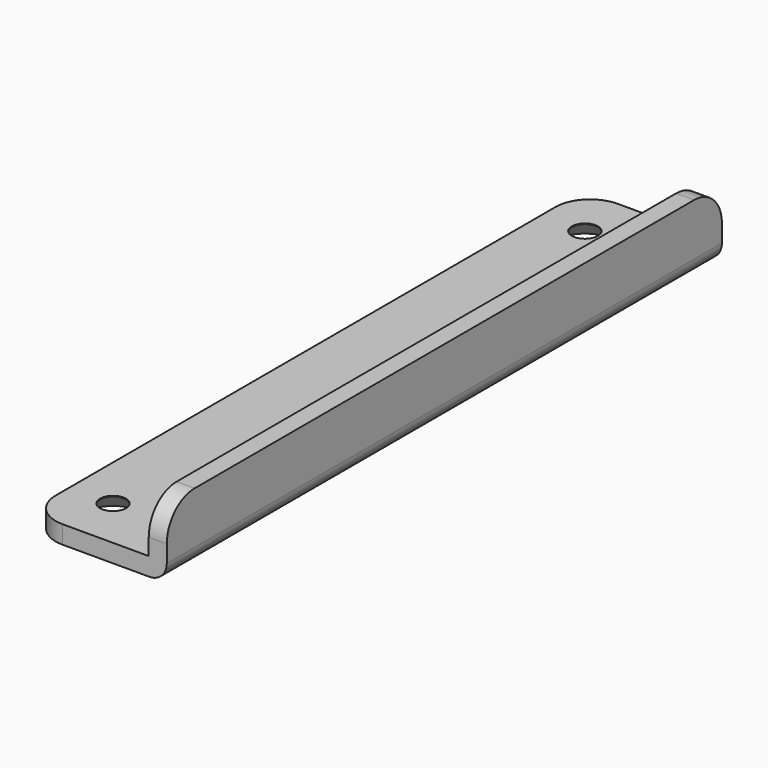
from build123d import *

# Parameters (mm, degrees)
PAD6703_DEPTH            = 63.5
FILLET540_R              = 6.35
FILLET541_R              = 3.175
SKETCH7626_R             = 2.38125
POCKET658_DEPTH          = 12.701
CHAMFER2378_SIZE         = 3.175
BODY6012_PLACEMENT_ANGLE = 180


with BuildPart() as part:
    # Sketch7640 → Pad6703 (new body, symmetric)
    with BuildSketch(Plane.XZ):
        Polygon((0, 0), (22.098, 0), (22.098, -9.398), (25.4, -9.398), (25.4, 3.302), (0, 3.302), align=None)
    extrude(amount=PAD6703_DEPTH, both=True)

    # Fillet540
    fillet540_edges = [part.edges().sort_by_distance(p)[0] for p in [
        (23.749, -63.5, -9.398),
        (23.749, 63.5, -9.398),
        (0, 63.5, 1.651),
        (0, -63.5, 1.651),
    ]]
    fillet(fillet540_edges, radius=FILLET540_R)

    # Fillet541
    fillet541_edges = [part.edges().sort_by_distance(p)[0] for p in [
        (25.4, 0, 3.302),
    ]]
    fillet(fillet541_edges, radius=FILLET541_R)

    # Sketch7626 (on ShapeBinder) → Pocket658 (cut, through all)
    with BuildSketch(Plane(origin=(0, 0, 3.302), x_dir=(-1, 0, 0), z_dir=(0, 0, 1))):
        with Locations((-7.9375, 53.975)):
            Circle(SKETCH7626_R)
        with Locations((-7.9375, -53.975)):
            Circle(SKETCH7626_R)
    extrude(amount=-POCKET658_DEPTH, mode=Mode.SUBTRACT)

    # Chamfer2378
    chamfer2378_edges = [part.edges().sort_by_distance(p)[0] for p in [
        (10.31875, 53.975, 3.302),
        (10.31875, -53.975, 3.302),
    ]]
    chamfer(chamfer2378_edges, length=CHAMFER2378_SIZE)


with BuildPart() as part_1:
    # Body6007 placement: moved
    add(part.part.moved(Location((4.7625, 0, 146.05))))


with BuildPart() as part_2:
    # Clone377 placement: moved
    add(part_1.part.moved(Location((0, -19.05, -142.875))))


with BuildPart() as part_3:
    # Body6012 placement: moved
    add(part_2.part.moved(Location((0, -19.05, -142.875))).rotate(Axis((0, -19.05, -142.875), (1, 0, 0)), BODY6012_PLACEMENT_ANGLE))


solid = part_3.part
